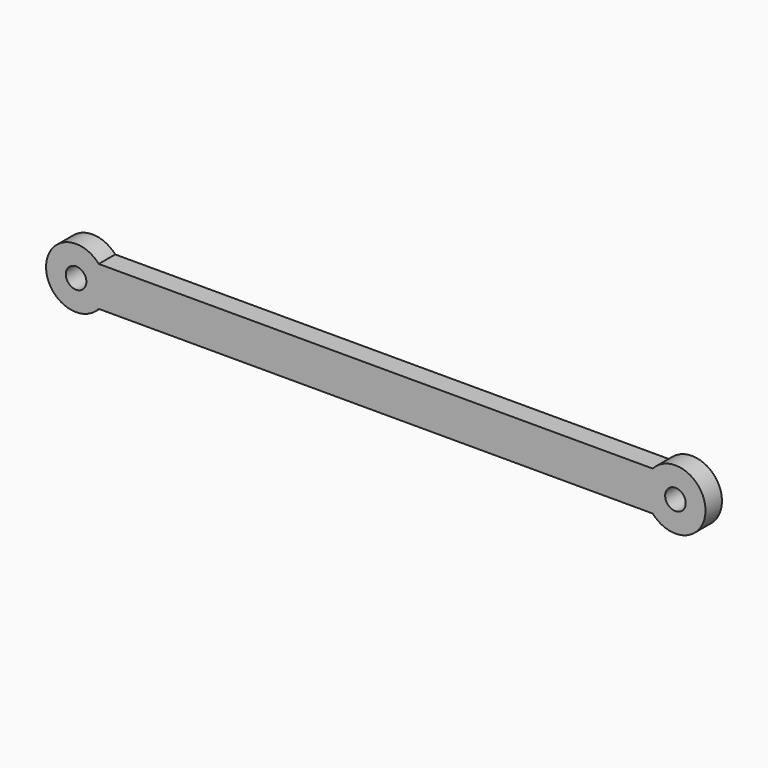
from build123d import *

# Parameters (mm, degrees)
F0_R     = 1.651
F1_DEPTH = 3.302


with BuildPart() as f1:
    # F0 (on Front) → F1 (new body)
    with BuildSketch(Plane.XZ):
        with BuildLine():
            Line((47.578762, 8.84081), (0, 8.84081))
            Line((0, 8.84081), (-41.321238, 8.84081))
            ThreePointArc((-41.321238, 8.84081), (-49.781747, 5.66581), (-41.321238, 2.49081))
            Line((-41.321238, 2.49081), (47.578762, 2.49081))
            ThreePointArc((47.578762, 2.49081), (56.03927, 5.66581), (47.578762, 8.84081))
        make_face()
        with Locations((-44.955747, 5.66581)):
            Circle(F0_R, mode=Mode.SUBTRACT)
        with Locations((51.21327, 5.66581)):
            Circle(F0_R, mode=Mode.SUBTRACT)
    extrude(amount=F1_DEPTH)


solid = f1.part
